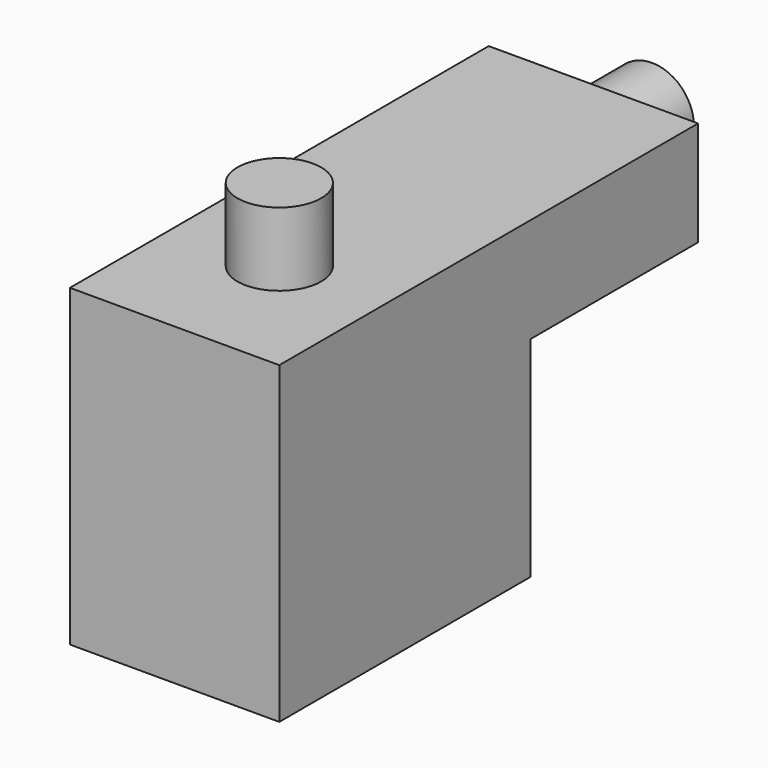
from build123d import *

# Parameters (mm, degrees)
F1_DEPTH = 20
F2_R     = 4
F3_DEPTH = 7
F4_R     = 4
F5_DEPTH = 7


with BuildPart() as f1:
    # F0 (on Right) → F1 (new body)
    with BuildSketch(Plane.YZ):
        Polygon((0, 30), (0, 0), (30, 0), (30, 20), (50, 20), (50, 30), align=None)
    extrude(amount=F1_DEPTH)

    # F2 (on face) → F3 (join)
    with BuildSketch(Plane(origin=(0, 50, 0), x_dir=(-1, 0, 0), z_dir=(0, 1, 0))):
        with Locations((-10, 25)):
            Circle(F2_R)
    extrude(amount=F3_DEPTH)

    # F4 (on face) → F5 (join)
    with BuildSketch(Plane.XY.offset(30)):
        with Locations((10, 12.5)):
            Circle(F4_R)
    extrude(amount=F5_DEPTH)


solid = f1.part
